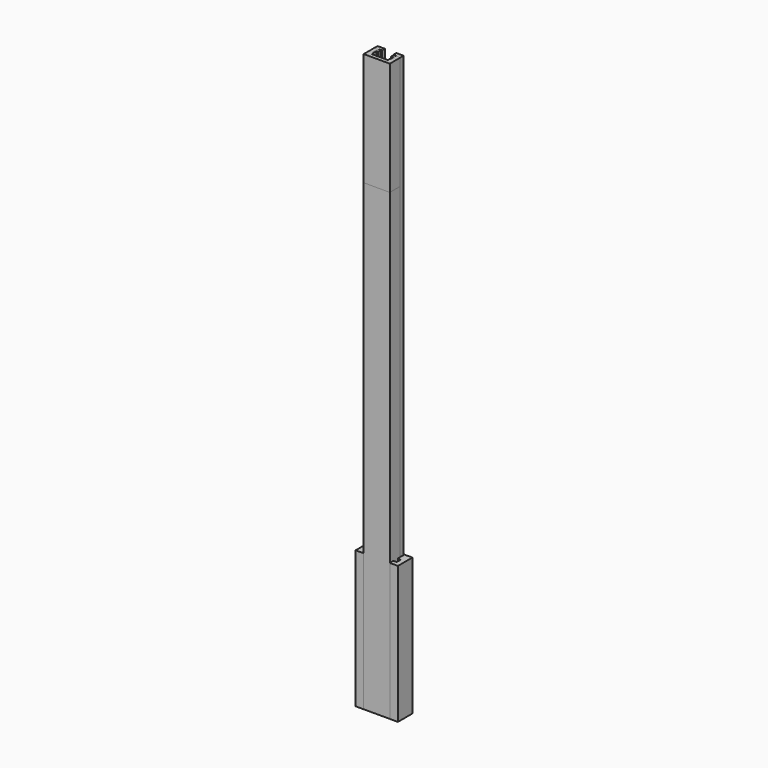
from build123d import *

# Parameters (mm, degrees)
PAD_DEPTH    = 100
PAD001_DEPTH = 100
PAD002_DEPTH = 420
PAD003_DEPTH = 100
PAD004_DEPTH = 420
PAD005_DEPTH = 337.5


with BuildPart() as body:
    # Sketch → Pad (new body)
    with BuildSketch(Plane.XY):
        Polygon((-15.4, 13.2), (-9.6, 13.2), (-9.6, 7.2), (-11.9, 7.2), (-11.9, 3.3), (11.9, 3.3), (11.9, 7.2), (9.6, 7.2), (9.6, 13.2), (15.4, 13.2), (15.4, 0), (-15.4, 0), align=None)
    extrude(amount=PAD_DEPTH)


with BuildPart() as body001:
    # Sketch001 → Pad001 (new body)
    with BuildSketch(Plane.XY):
        Polygon((-9.45, 12.6), (-4.15, 12.6), (-4.15, 10.1), (-6.05, 10.1), (-6.05, 2.8), (6.05, 2.8), (6.05, 10.1), (4.15, 10.1), (4.15, 12.6), (9.45, 12.6), (9.45, 0), (-9.45, 0), align=None)
    extrude(amount=PAD001_DEPTH)


with BuildPart() as slot_19x12_6x420:
    # Sketch002 → Pad002 (new body)
    with BuildSketch(Plane.XY):
        Polygon((-9.45, 12.6), (-4.15, 12.6), (-4.15, 10.1), (-6.05, 10.1), (-6.05, 2.8), (6.05, 2.8), (6.05, 10.1), (4.15, 10.1), (4.15, 12.6), (9.45, 12.6), (9.45, 0), (-9.45, 0), align=None)
    extrude(amount=PAD002_DEPTH)


with BuildPart() as body003:
    # Sketch003 → Pad003 (new body)
    with BuildSketch(Plane.XY):
        Polygon((-9.5, 9.5), (-4.6, 9.5), (-4.6, 7.35), (-7, 7.35), (-7, 4.35), (-5.8, 4.35), (-5.8, 2.5), (5.8, 2.5), (5.8, 4.35), (7, 4.35), (7, 7.35), (4.6, 7.35), (4.6, 9.5), (9.5, 9.5), (9.5, 0), (-9.5, 0), align=None)
    extrude(amount=PAD003_DEPTH)


with BuildPart() as slim_slot_19x9_5x420:
    # Sketch004 → Pad004 (new body)
    with BuildSketch(Plane.XY):
        Polygon((-9.5, 9.5), (-4.6, 9.5), (-4.6, 7.35), (-7, 7.35), (-7, 4.35), (-5.8, 4.35), (-5.8, 2.5), (5.8, 2.5), (5.8, 4.35), (7, 4.35), (7, 7.35), (4.6, 7.35), (4.6, 9.5), (9.5, 9.5), (9.5, 0), (-9.5, 0), align=None)
    extrude(amount=PAD004_DEPTH)


with BuildPart() as slim_slot_19x9_5x337:
    # Sketch005 → Pad005 (new body)
    with BuildSketch(Plane.XY):
        Polygon((-9.5, 9.5), (-4.6, 9.5), (-4.6, 7.35), (-7, 7.35), (-7, 4.35), (-5.8, 4.35), (-5.8, 2.5), (5.8, 2.5), (5.8, 4.35), (7, 4.35), (7, 7.35), (4.6, 7.35), (4.6, 9.5), (9.5, 9.5), (9.5, 0), (-9.5, 0), align=None)
    extrude(amount=PAD005_DEPTH)


solid = Compound([body.part, body001.part, slot_19x12_6x420.part, body003.part, slim_slot_19x9_5x420.part, slim_slot_19x9_5x337.part])
